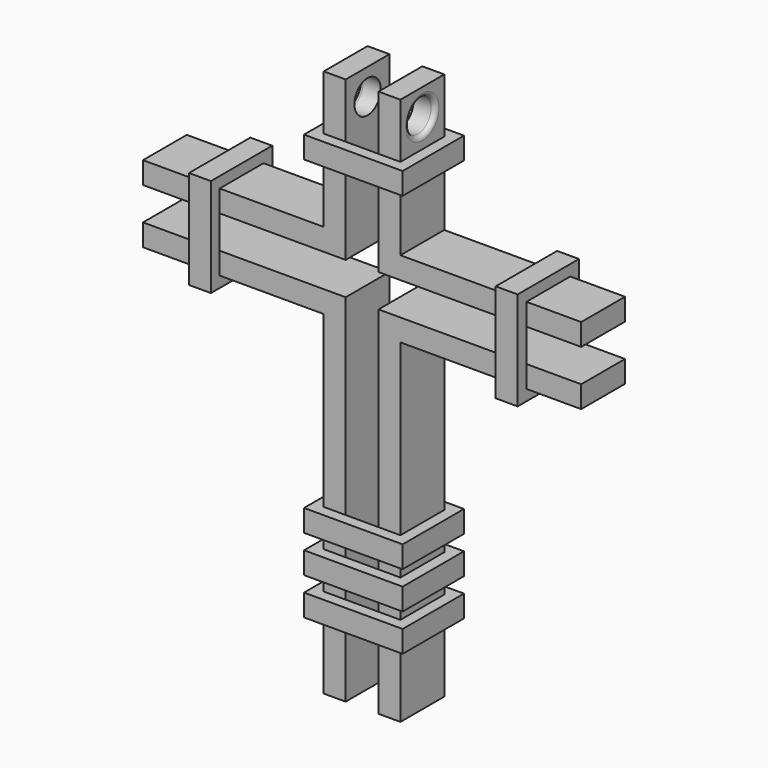
from build123d import *

# Parameters (mm, degrees)
F1_DEPTH  = 3.175
F3_DEPTH  = 3.176
F5_W      = 1.27
F5_H      = 5.715
F5_W_2    = 5.715
F5_H_2    = 1.27
F6_DEPTH  = 4.445
F7_W      = 1.905
F7_H      = 3.175
F8_DEPTH  = 25.4
F9_W      = 3.175
F9_H      = 1.905
F10_DEPTH = 19.05
F11_R     = 0.9525
F12_DEPTH = 14.9235
F13_R     = 0.254


with BuildPart() as f1:
    # F0 (on Front) → F1 (new body)
    with BuildSketch(Plane.XZ):
        Polygon((2.2225, 10.16), (-2.2225, 10.16), (-2.2225, 2.2225), (-12.7, 2.2225), (-12.7, -2.2225), (-2.2225, -2.2225), (-2.2225, -21.59), (2.2225, -21.59), (2.2225, -2.2225), (12.7, -2.2225), (12.7, 2.2225), (2.2225, 2.2225), align=None)
    extrude(amount=F1_DEPTH)

    # F2 (on Front) → F3 (cut, through all)
    with BuildSketch(Plane.XZ):
        Polygon((-0.9525, -22.86), (0.9525, -22.86), (0.9525, -0.9525), (15.875, -0.9525), (15.875, 0.9525), (0.9525, 0.9525), (0.9525, 22.86), (-0.9525, 22.86), (-0.9525, 0.9525), (-15.875, 0.9525), (-15.875, -0.9525), (-0.9525, -0.9525), align=None)
    extrude(amount=F3_DEPTH, mode=Mode.SUBTRACT)

    # F5 (on offset) → F6 (join)
    with BuildSketch(Plane.XZ.offset(-0.635)):
        with Locations((-8.89, 0)):
            Rectangle(F5_W, F5_H)
        with Locations((8.89, 0)):
            Rectangle(F5_W, F5_H)
        with Locations((0, 6.35)):
            Rectangle(F5_W_2, F5_H_2)
        with Locations((0, -12.7)):
            Rectangle(F5_W_2, F5_H_2)
        with Locations((0, -14.859)):
            Rectangle(F5_W_2, F5_H_2)
        with Locations((0, -17.018)):
            Rectangle(F5_W_2, F5_H_2)
    extrude(amount=F6_DEPTH)

    # F7 (on Top) → F8 (cut, symmetric)
    with BuildSketch(Plane.XY):
        with Locations((0, -1.5875)):
            Rectangle(F7_W, F7_H)
    extrude(amount=F8_DEPTH, both=True, mode=Mode.SUBTRACT)

    # F9 (on Right) → F10 (cut, symmetric)
    with BuildSketch(Plane.YZ):
        with Locations((-1.5875, 0)):
            Rectangle(F9_W, F9_H)
    extrude(amount=F10_DEPTH, both=True, mode=Mode.SUBTRACT)

    # F11 (on face) → F12 (cut, through all)
    with BuildSketch(Plane(origin=(-2.2225, 0, 0), x_dir=(0, -1, 0), z_dir=(-1, 0, 0))):
        with Locations((1.5875, 8.636)):
            Circle(F11_R)
    extrude(amount=-F12_DEPTH, mode=Mode.SUBTRACT)

    # F13
    f13_edges = [f1.edges().sort_by_distance(p)[0] for p in [
        (-2.2225, -0.635, 8.636),
        (2.2225, -0.635, 8.636),
    ]]
    fillet(f13_edges, radius=F13_R)


solid = f1.part
